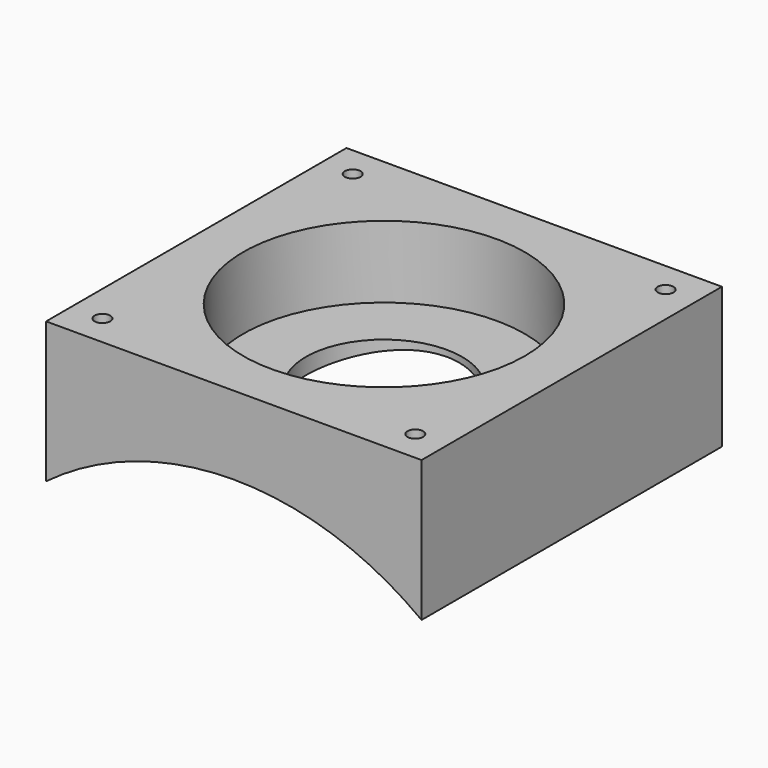
from build123d import *

# Parameters (mm, degrees)
F1_DEPTH = 60
F2_R     = 25
F3_DEPTH = 50
F4_R     = 45
F5_DEPTH = 23
F7_D     = 5
F7_DEPTH = 15
F7_TIP   = 1.5021515476


with BuildPart() as f1:
    # F0 (on Front) → F1 (new body, symmetric)
    with BuildSketch(Plane.XZ):
        with BuildLine():
            ThreePointArc((0, 100), (31.6227766017, 94.8683298051), (60, 80))
            Line((60, 80), (60, 125))
            Line((60, 125), (-60, 125))
            Line((-60, 125), (-60, 80))
            ThreePointArc((-60, 80), (-31.6227766017, 94.8683298051), (0, 100))
        make_face()
    extrude(amount=F1_DEPTH, both=True)

    # F2 (on face) → F3 (cut)
    with BuildSketch(Plane.XY.offset(125)):
        Circle(F2_R)
    extrude(amount=-F3_DEPTH, mode=Mode.SUBTRACT)

    # F4 (on face) → F5 (cut)
    with BuildSketch(Plane.XY.offset(125)):
        Circle(F4_R)
    extrude(amount=-F5_DEPTH, mode=Mode.SUBTRACT)

    # F7
    with Locations(Plane.XY.offset(125)):
        with Locations((-50, 50), (50, 50), (50, -50), (-50, -50)):
            Hole(F7_D / 2, depth=F7_DEPTH)
            with Locations((0, 0, -(F7_DEPTH + F7_TIP / 2))):  # 118° drill point
                Cone(0, F7_D / 2, F7_TIP, mode=Mode.SUBTRACT)


solid = f1.part
